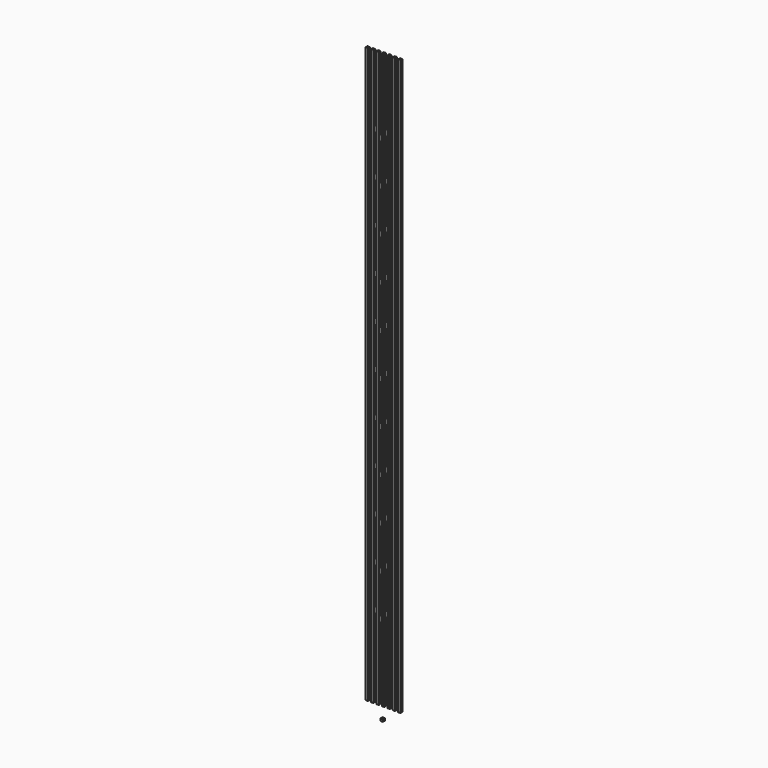
from build123d import *

# Parameters (mm, degrees)
F0_W      = 1.3
F0_H      = 1.3
F0_W_2    = 2.5
F0_H_2    = 0.2
F1_DEPTH  = 475
F2_W      = 2.5
F2_H      = 60
F2_H_2    = 30
F3_DEPTH  = 4.8
F4_W      = 2.5
F4_H      = 65
F4_H_2    = 30
F4_H_3    = 55
F5_DEPTH  = 1.101
F6_W      = 2.5
F6_H      = 60
F6_H_2    = 30
F7_DEPTH  = 1.101
F8_W      = 2.5
F8_H      = 55
F8_H_2    = 30
F8_H_3    = 65
F9_DEPTH  = 1.101
F10_W     = 2.5
F10_H     = 60
F10_H_2   = 30
F11_DEPTH = 1.101
F12_W     = 2.5
F12_H     = 55
F12_H_2   = 30
F12_H_3   = 65
F13_DEPTH = 1.108218
F14_W     = 2
F14_H     = 2
F15_DEPTH = 2


with BuildPart() as f1:
    # F0 (on Top) → F1 (new body)
    with BuildSketch(Plane.XY):
        Polygon((0, 2), (0, 0), (2, 0), (2, 0.9), (2, 1.1), (2, 2), align=None)
        with Locations((1, 1)):
            Rectangle(F0_W, F0_H, mode=Mode.SUBTRACT)
        with Locations((3.25, 1)):
            Rectangle(F0_W_2, F0_H_2)
        Polygon((4.5, 1.1), (4.5, 0.9), (4.5, 0), (6.5, 0), (6.5, 0.9), (6.5, 1.1), (6.5, 2), (4.5, 2), align=None)
        with Locations((5.5, 1)):
            Rectangle(F0_W, F0_H, mode=Mode.SUBTRACT)
        Polygon((9, 1.1), (9, 0.9), (9, 0), (11, 0), (11, 0.9), (11, 1.1), (11, 2), (9, 2), align=None)
        with Locations((10, 1)):
            Rectangle(F0_W, F0_H, mode=Mode.SUBTRACT)
        with Locations((7.75, 1)):
            Rectangle(F0_W_2, F0_H_2)
        with Locations((12.25, 1)):
            Rectangle(F0_W_2, F0_H_2)
        Polygon((13.5, 1.1), (13.5, 0.9), (13.5, 0), (15.5, 0), (15.5, 0.9), (15.5, 1.1), (15.5, 2), (13.5, 2), align=None)
        with Locations((14.5, 1)):
            Rectangle(F0_W, F0_H, mode=Mode.SUBTRACT)
        with Locations((16.75, 1)):
            Rectangle(F0_W_2, F0_H_2)
        with Locations((21.25, 1)):
            Rectangle(F0_W_2, F0_H_2)
        Polygon((18, 1.1), (18, 0.9), (18, 0), (20, 0), (20, 0.9), (20, 1.1), (20, 2), (18, 2), align=None)
        with Locations((19, 1)):
            Rectangle(F0_W, F0_H, mode=Mode.SUBTRACT)
        Polygon((22.5, 1.1), (22.5, 0.9), (22.5, -0.007218), (24.5, -0.007218), (24.5, 0.892782), (24.5, 1.092782), (24.5, 1.992782), (22.5, 1.992782), align=None)
        with Locations((23.5, 0.992782)):
            Rectangle(F0_W, F0_H, mode=Mode.SUBTRACT)
        Polygon((27, 1.092782), (27, 0.892782), (27, 0), (29, 0), (29, 0.9), (29, 1.1), (29, 2), (27, 2), align=None)
        with Locations((28, 1)):
            Rectangle(F0_W, F0_H, mode=Mode.SUBTRACT)
        with Locations((25.75, 0.992782)):
            Rectangle(F0_W_2, F0_H_2)
    extrude(amount=F1_DEPTH)

    # F2 (on face) → F3 (cut)
    with BuildSketch(Plane.XZ.offset(-0.9)):
        with Locations((3.25, 30)):
            Rectangle(F2_W, F2_H)
        with Locations((3.25, 80)):
            Rectangle(F2_W, F2_H_2)
        with Locations((3.25, 115)):
            Rectangle(F2_W, F2_H_2)
        with Locations((3.25, 150)):
            Rectangle(F2_W, F2_H_2)
        with Locations((3.25, 185)):
            Rectangle(F2_W, F2_H_2)
        with Locations((3.25, 220)):
            Rectangle(F2_W, F2_H_2)
        with Locations((3.25, 255)):
            Rectangle(F2_W, F2_H_2)
        with Locations((3.25, 290)):
            Rectangle(F2_W, F2_H_2)
        with Locations((3.25, 325)):
            Rectangle(F2_W, F2_H_2)
        with Locations((3.25, 360)):
            Rectangle(F2_W, F2_H_2)
        with Locations((3.25, 395)):
            Rectangle(F2_W, F2_H_2)
        with Locations((3.25, 445)):
            Rectangle(F2_W, F2_H)
    extrude(amount=-F3_DEPTH, mode=Mode.SUBTRACT)

    # F4 (on face) → F5 (cut, through all)
    with BuildSketch(Plane.XZ.offset(-0.9)):
        with Locations((7.75, 32.5)):
            Rectangle(F4_W, F4_H)
        with Locations((7.75, 85)):
            Rectangle(F4_W, F4_H_2)
        with Locations((7.75, 120)):
            Rectangle(F4_W, F4_H_2)
        with Locations((7.75, 155)):
            Rectangle(F4_W, F4_H_2)
        with Locations((7.75, 190)):
            Rectangle(F4_W, F4_H_2)
        with Locations((7.75, 225)):
            Rectangle(F4_W, F4_H_2)
        with Locations((7.75, 260)):
            Rectangle(F4_W, F4_H_2)
        with Locations((7.75, 295)):
            Rectangle(F4_W, F4_H_2)
        with Locations((7.75, 330)):
            Rectangle(F4_W, F4_H_2)
        with Locations((7.75, 365)):
            Rectangle(F4_W, F4_H_2)
        with Locations((7.75, 400)):
            Rectangle(F4_W, F4_H_2)
        with Locations((7.75, 447.5)):
            Rectangle(F4_W, F4_H_3)
    extrude(amount=-F5_DEPTH, mode=Mode.SUBTRACT)

    # F6 (on face) → F7 (cut, through all)
    with BuildSketch(Plane.XZ.offset(-0.9)):
        with Locations((12.25, 30)):
            Rectangle(F6_W, F6_H)
        with Locations((12.25, 80)):
            Rectangle(F6_W, F6_H_2)
        with Locations((12.25, 115)):
            Rectangle(F6_W, F6_H_2)
        with Locations((12.25, 150)):
            Rectangle(F6_W, F6_H_2)
        with Locations((12.25, 185)):
            Rectangle(F6_W, F6_H_2)
        with Locations((12.25, 220)):
            Rectangle(F6_W, F6_H_2)
        with Locations((12.25, 255)):
            Rectangle(F6_W, F6_H_2)
        with Locations((12.25, 290)):
            Rectangle(F6_W, F6_H_2)
        with Locations((12.25, 325)):
            Rectangle(F6_W, F6_H_2)
        with Locations((12.25, 360)):
            Rectangle(F6_W, F6_H_2)
        with Locations((12.25, 395)):
            Rectangle(F6_W, F6_H_2)
        with Locations((12.25, 445)):
            Rectangle(F6_W, F6_H)
    extrude(amount=-F7_DEPTH, mode=Mode.SUBTRACT)

    # F8 (on face) → F9 (cut, through all)
    with BuildSketch(Plane.XZ.offset(-0.9)):
        with Locations((16.75, 447.5)):
            Rectangle(F8_W, F8_H)
        with Locations((16.75, 400)):
            Rectangle(F8_W, F8_H_2)
        with Locations((16.75, 365)):
            Rectangle(F8_W, F8_H_2)
        with Locations((16.75, 330)):
            Rectangle(F8_W, F8_H_2)
        with Locations((16.75, 295)):
            Rectangle(F8_W, F8_H_2)
        with Locations((16.75, 260)):
            Rectangle(F8_W, F8_H_2)
        with Locations((16.75, 225)):
            Rectangle(F8_W, F8_H_2)
        with Locations((16.75, 190)):
            Rectangle(F8_W, F8_H_2)
        with Locations((16.75, 155)):
            Rectangle(F8_W, F8_H_2)
        with Locations((16.75, 120)):
            Rectangle(F8_W, F8_H_2)
        with Locations((16.75, 85)):
            Rectangle(F8_W, F8_H_2)
        with Locations((16.75, 32.5)):
            Rectangle(F8_W, F8_H_3)
    extrude(amount=-F9_DEPTH, mode=Mode.SUBTRACT)

    # F10 (on face) → F11 (cut, through all)
    with BuildSketch(Plane.XZ.offset(-0.9)):
        with Locations((21.25, 445)):
            Rectangle(F10_W, F10_H)
        with Locations((21.25, 395)):
            Rectangle(F10_W, F10_H_2)
        with Locations((21.25, 360)):
            Rectangle(F10_W, F10_H_2)
        with Locations((21.25, 325)):
            Rectangle(F10_W, F10_H_2)
        with Locations((21.25, 290)):
            Rectangle(F10_W, F10_H_2)
        with Locations((21.25, 255)):
            Rectangle(F10_W, F10_H_2)
        with Locations((21.25, 220)):
            Rectangle(F10_W, F10_H_2)
        with Locations((21.25, 185)):
            Rectangle(F10_W, F10_H_2)
        with Locations((21.25, 150)):
            Rectangle(F10_W, F10_H_2)
        with Locations((21.25, 115)):
            Rectangle(F10_W, F10_H_2)
        with Locations((21.25, 80)):
            Rectangle(F10_W, F10_H_2)
        with Locations((21.25, 30)):
            Rectangle(F10_W, F10_H)
    extrude(amount=-F11_DEPTH, mode=Mode.SUBTRACT)

    # F12 (on face) → F13 (cut, through all)
    with BuildSketch(Plane.XZ.offset(-0.892782)):
        with Locations((25.75, 447.5)):
            Rectangle(F12_W, F12_H)
        with Locations((25.75, 400)):
            Rectangle(F12_W, F12_H_2)
        with Locations((25.75, 365)):
            Rectangle(F12_W, F12_H_2)
        with Locations((25.75, 330)):
            Rectangle(F12_W, F12_H_2)
        with Locations((25.75, 295)):
            Rectangle(F12_W, F12_H_2)
        with Locations((25.75, 260)):
            Rectangle(F12_W, F12_H_2)
        with Locations((25.75, 225)):
            Rectangle(F12_W, F12_H_2)
        with Locations((25.75, 190)):
            Rectangle(F12_W, F12_H_2)
        with Locations((25.75, 155)):
            Rectangle(F12_W, F12_H_2)
        with Locations((25.75, 120)):
            Rectangle(F12_W, F12_H_2)
        with Locations((25.75, 85)):
            Rectangle(F12_W, F12_H_2)
        with Locations((25.75, 32.5)):
            Rectangle(F12_W, F12_H_3)
    extrude(amount=-F13_DEPTH, mode=Mode.SUBTRACT)


with BuildPart() as f15:
    # F14 (on Front) → F15 (new body)
    with BuildSketch(Plane.XZ):
        with Locations((14.952965, -8.837507)):
            Rectangle(F14_W, F14_H)
    extrude(amount=F15_DEPTH)


solid = Compound([f1.part, f15.part])
